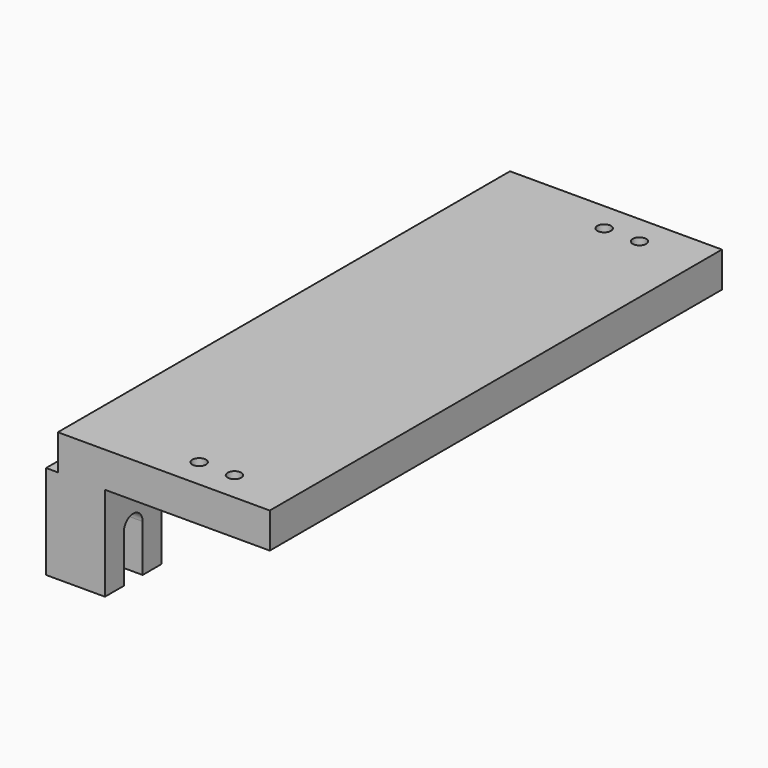
from build123d import *

# Parameters (mm, degrees)
SKETCH011_W              = 240
SKETCH011_H              = 15
PAD007_DEPTH             = 90
SKETCH012_R              = 2.9
HOLE004_DEPTH            = 270.001
PAD008_DEPTH             = 25
CLONE007_PLACEMENT_ANGLE = 180


with BuildPart() as part:
    # Sketch011 → Pad007 (new body)
    with BuildSketch(Plane.YZ.offset(5)):
        with Locations((95, 262.5)):
            Rectangle(SKETCH011_W, SKETCH011_H)
    extrude(amount=PAD007_DEPTH)

    # Sketch012 → Hole004 (cut, through all)
    with BuildSketch(Plane.XY):
        with Locations((55, 202.5)):
            Circle(SKETCH012_R)
        with Locations((70, 202.5)):
            Circle(SKETCH012_R)
        with Locations((55, -12.5)):
            Circle(SKETCH012_R)
        with Locations((70, -12.5)):
            Circle(SKETCH012_R)
    extrude(amount=HOLE004_DEPTH, mode=Mode.SUBTRACT)

    # Sketch013 → Pad008 (join)
    with BuildSketch(Plane.YZ):
        with BuildLine():
            Line((-25, 270), (-25, 310))
            Line((-15, 310), (-25, 310))
            Line((-15, 310), (-15, 290))
            ThreePointArc((-15, 290), (-10, 285), (-5, 290))
            Line((-5, 310), (-5, 290))
            Line((-5, 310), (5, 310))
            Line((5, 270), (5, 310))
            Line((-25, 270), (5, 270))
        make_face()
        with BuildLine():
            Line((185, 270), (185, 310))
            Line((195, 310), (185, 310))
            Line((195, 310), (195, 290))
            ThreePointArc((195, 290), (200, 285), (205, 290))
            Line((205, 310), (205, 290))
            Line((205, 310), (215, 310))
            Line((215, 270), (215, 310))
            Line((185, 270), (215, 270))
        make_face()
    extrude(amount=PAD008_DEPTH)


with BuildPart() as part_1:
    # Clone007 placement: moved
    add(part.part.moved(Location((0, 190, 260))).rotate(Axis((0, 190, 260), (1, 0, 0)), CLONE007_PLACEMENT_ANGLE))


with BuildPart() as part_2:
    # Clone009 placement: moved
    add(part_1.part.moved(Location((0, 250, 0))))


solid = part_2.part
